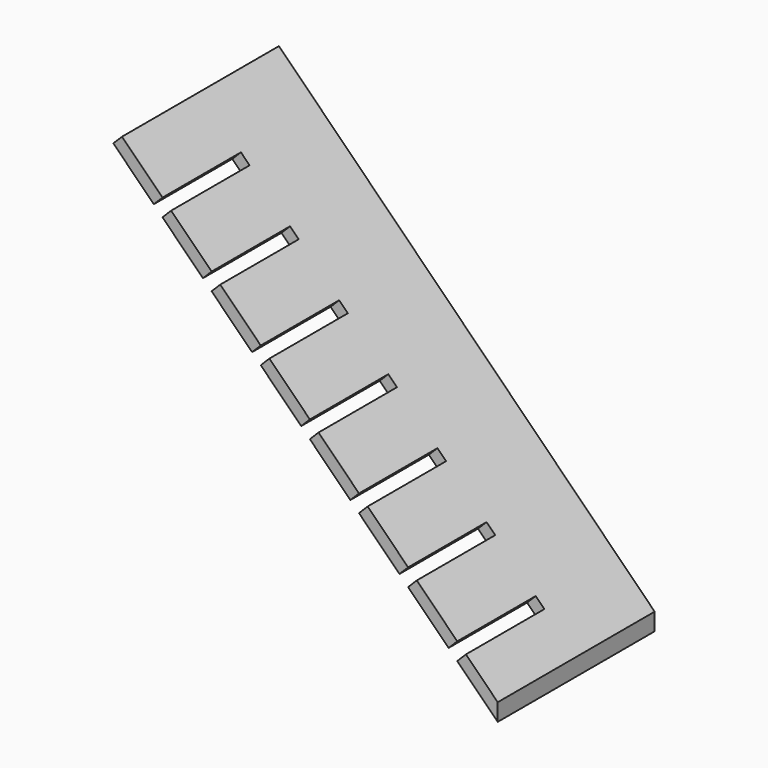
from build123d import *

# Parameters (mm, degrees)
F1_DEPTH = 152.4
F2_W     = 19.05
F2_H     = 152.4
F3_DEPTH = 19.05


with BuildPart() as f1:
    # F0 (on Front) → F1 (new body, symmetric)
    with BuildSketch(Plane.XZ):
        Polygon((-218.657332487, 731.8369923304), (378.5296995641, 134.6499602793), (378.5296995641, 161.5907286425), (-205.1869483054, 745.307376512), align=None)
    extrude(amount=F1_DEPTH, both=True)

    # F2 (on face) → F3 (cut)
    with BuildSketch(Plane(origin=(270.0602141033, 0, 270.0602141033), x_dir=(0.7071067812, 0, -0.7071067812), z_dir=(0.7071067812, 0, 0.7071067812))):
        with Locations((74.0240174423, -76.2)):
            Rectangle(F2_W, F2_H)
        with Locations((-33.9259825577, -76.2)):
            Rectangle(F2_W, F2_H)
        with Locations((-141.8759825577, -76.2)):
            Rectangle(F2_W, F2_H)
        with Locations((-249.8259825577, -76.2)):
            Rectangle(F2_W, F2_H)
        with Locations((-357.7759825577, -76.2)):
            Rectangle(F2_W, F2_H)
        with Locations((-465.7259825577, -76.2)):
            Rectangle(F2_W, F2_H)
        with Locations((-573.6759825577, -76.2)):
            Rectangle(F2_W, F2_H)
    extrude(amount=-F3_DEPTH, mode=Mode.SUBTRACT)


solid = f1.part
